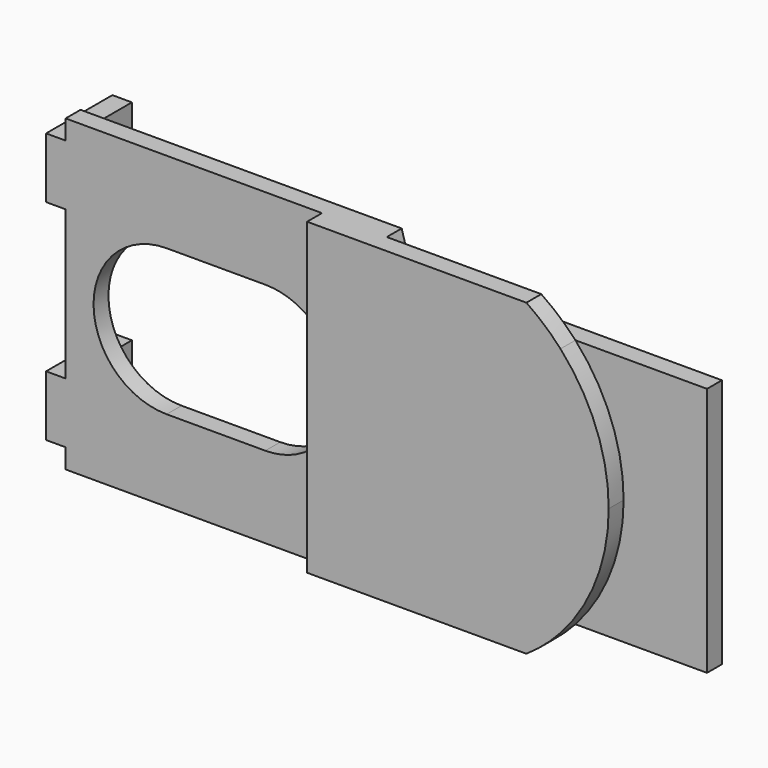
from build123d import *

# Parameters (mm, degrees)
F0_W     = 2.667
F0_H     = 8.255
F1_DEPTH = 2.54
F2_DEPTH = 2.54
F3_DEPTH = 11.303


with BuildPart() as f1:
    # F0 (on Front) → F1 (new body)
    with BuildSketch(Plane.XZ):
        with BuildLine():
            Line((40.015628993, 17.0561), (22.057944681, 17.0561))
            ThreePointArc((22.057944681, 17.0561), (26.9348097233, 9.1403911713), (28.636428993, 0))
            ThreePointArc((28.636428993, 0), (26.9348097233, -9.1403911713), (22.057944681, -17.0561))
            Line((22.057944681, -17.0561), (40.015628993, -17.0561))
            Line((40.015628993, -17.0561), (40.015628993, 0))
            Line((40.015628993, 0), (40.015628993, 17.0561))
        make_face()
        with Locations((-48.820871007, 14.2875)):
            Rectangle(F0_W, F0_H)
        with BuildLine():
            Line((-3.672371007, 21.082), (-12.511571007, 21.082))
            Line((-12.511571007, 21.082), (-12.511571007, 6.2905908912))
            ThreePointArc((-12.511571007, 6.2905908912), (-10.276371007, 0), (-12.511571007, -6.2905908912))
            Line((-12.511571007, -6.2905908912), (-12.511571007, -21.082))
            Line((-12.511571007, -21.082), (-3.672371007, -21.082))
            Line((-3.672371007, -21.082), (-2.529371007, -17.0561))
            Line((-2.529371007, -17.0561), (22.057944681, -17.0561))
            ThreePointArc((22.057944681, -17.0561), (26.9348097233, -9.1403911713), (28.636428993, 0))
            ThreePointArc((28.636428993, 0), (26.9348097233, 9.1403911713), (22.057944681, 17.0561))
            Line((22.057944681, 17.0561), (-2.529371007, 17.0561))
            Line((-2.529371007, 17.0561), (-3.672371007, 21.082))
        make_face()
        with BuildLine():
            ThreePointArc((-12.511571007, -6.2905908912), (-10.276371007, 0), (-12.511571007, 6.2905908912))
            Line((-12.511571007, 6.2905908912), (-12.511571007, 0))
            Line((-12.511571007, 0), (-12.511571007, -6.2905908912))
        make_face()
        with BuildLine():
            Line((-12.511571007, 21.082), (-47.487371007, 21.082))
            Line((-47.487371007, 21.082), (-47.487371007, 18.415))
            Line((-47.487371007, 18.415), (-47.487371007, 10.16))
            Line((-47.487371007, 10.16), (-47.487371007, 0))
            Line((-47.487371007, 0), (-47.487371007, -10.16))
            Line((-47.487371007, -10.16), (-47.487371007, -18.415))
            Line((-47.487371007, -18.415), (-47.487371007, -21.082))
            Line((-47.487371007, -21.082), (-12.511571007, -21.082))
            Line((-12.511571007, -21.082), (-12.511571007, -6.2905908912))
            ThreePointArc((-12.511571007, -6.2905908912), (-15.9635302708, -9.0029155316), (-20.245871007, -9.9695))
            Line((-20.245871007, -9.9695), (-33.707871007, -9.9695))
            ThreePointArc((-33.707871007, -9.9695), (-43.677371007, 0), (-33.707871007, 9.9695))
            Line((-33.707871007, 9.9695), (-20.245871007, 9.9695))
            ThreePointArc((-20.245871007, 9.9695), (-15.9635302708, 9.0029155316), (-12.511571007, 6.2905908912))
            Line((-12.511571007, 6.2905908912), (-12.511571007, 21.082))
        make_face()
        with Locations((-48.820871007, -14.2875)):
            Rectangle(F0_W, F0_H)
    extrude(amount=-F1_DEPTH)

    # F0 (on Front) → F2 (join)
    with BuildSketch(Plane.XZ):
        with BuildLine():
            Line((-3.672371007, 21.082), (-12.511571007, 21.082))
            Line((-12.511571007, 21.082), (-12.511571007, 6.2905908912))
            ThreePointArc((-12.511571007, 6.2905908912), (-10.276371007, 0), (-12.511571007, -6.2905908912))
            Line((-12.511571007, -6.2905908912), (-12.511571007, -21.082))
            Line((-12.511571007, -21.082), (-3.672371007, -21.082))
            Line((-3.672371007, -21.082), (-2.529371007, -17.0561))
            Line((-2.529371007, -17.0561), (22.057944681, -17.0561))
            ThreePointArc((22.057944681, -17.0561), (26.9348097233, -9.1403911713), (28.636428993, 0))
            ThreePointArc((28.636428993, 0), (26.9348097233, 9.1403911713), (22.057944681, 17.0561))
            Line((22.057944681, 17.0561), (-2.529371007, 17.0561))
            Line((-2.529371007, 17.0561), (-3.672371007, 21.082))
        make_face()
        with BuildLine():
            ThreePointArc((-12.511571007, -6.2905908912), (-10.276371007, 0), (-12.511571007, 6.2905908912))
            Line((-12.511571007, 6.2905908912), (-12.511571007, 0))
            Line((-12.511571007, 0), (-12.511571007, -6.2905908912))
        make_face()
        with BuildLine():
            Line((17.4036191167, 21.082), (-3.672371007, 21.082))
            Line((-3.672371007, 21.082), (-2.529371007, 17.0561))
            Line((-2.529371007, 17.0561), (22.057944681, 17.0561))
            ThreePointArc((22.057944681, 17.0561), (19.8531568744, 19.2105271796), (17.4036191167, 21.082))
        make_face()
        with BuildLine():
            Line((-2.529371007, -17.0561), (-3.672371007, -21.082))
            Line((-3.672371007, -21.082), (17.4036191167, -21.082))
            ThreePointArc((17.4036191167, -21.082), (19.8531568744, -19.2105271796), (22.057944681, -17.0561))
            Line((22.057944681, -17.0561), (-2.529371007, -17.0561))
        make_face()
    extrude(amount=F2_DEPTH)

    # F0 (on Front) → F3 (join)
    with BuildSketch(Plane.XZ):
        with Locations((-48.820871007, 14.2875)):
            Rectangle(F0_W, F0_H)
        with Locations((-48.820871007, -14.2875)):
            Rectangle(F0_W, F0_H)
    extrude(amount=-F3_DEPTH)


solid = f1.part
